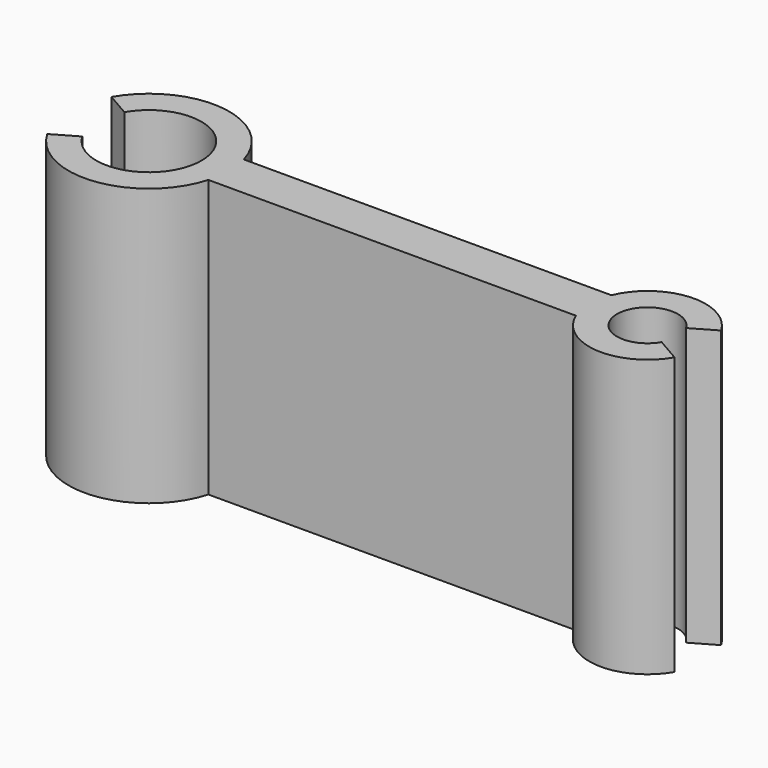
from build123d import *

# Parameters (mm, degrees)
F1_DEPTH = 25


with BuildPart() as f1:
    # F0 (on Top) → F1 (new body)
    with BuildSketch(Plane.XY):
        with BuildLine():
            ThreePointArc((-4.113621, 2.375), (4.75, 0), (-4.113621, -2.375))
            Line((-4.113621, -2.375), (-6.278684, -3.625))
            ThreePointArc((-6.278684, -3.625), (0.882712, -7.196063), (6.96868, -2))
            Line((6.96868, -2), (40.145878, -2))
            ThreePointArc((40.145878, -2), (44.651728, -5.238435), (49.546633, -2.625))
            Line((49.546633, -2.625), (47.38157, -1.375))
            ThreePointArc((47.38157, -1.375), (42.25, 0), (47.38157, 1.375))
            Line((47.38157, 1.375), (49.546633, 2.625))
            ThreePointArc((49.546633, 2.625), (44.651728, 5.238435), (40.145878, 2))
            Line((40.145878, 2), (6.96868, 2))
            ThreePointArc((6.96868, 2), (0.882712, 7.196063), (-6.278684, 3.625))
            Line((-6.278684, 3.625), (-4.113621, 2.375))
        make_face()
    extrude(amount=F1_DEPTH)


solid = f1.part
